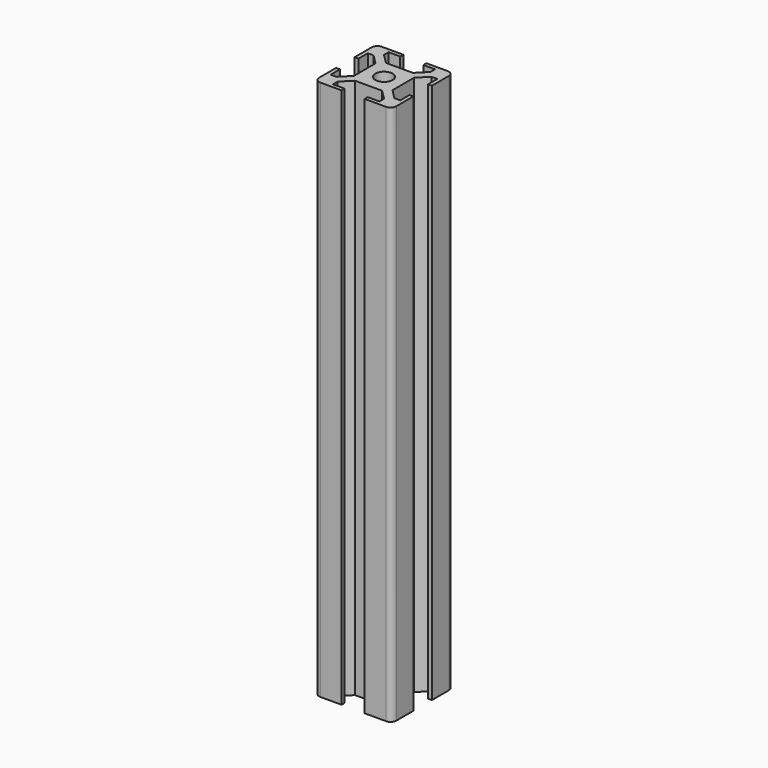
from build123d import *

# Parameters (mm, degrees)
SKETCH_R  = 2.25
PAD_DEPTH = 140
FILLET_R  = 1.5


with BuildPart() as part:
    # Sketch → Pad (new body)
    with BuildSketch(Plane(origin=(0, 0, 0), x_dir=(1, 0, 0), z_dir=(0, 0, -1))):
        Polygon((7, 0), (7, -1), (4, -1), (4, -2.5), (6.499998, -5), (13.500002, -5), (16, -2.5), (16, -1), (13, -1), (13, 0), (20, 0), (20, -7), (19, -7), (19, -4), (17.5, -4), (15.000002, -6.5), (15.000002, -13.500005), (17.5, -16.000005), (19, -16.000005), (19, -13.000005), (20, -13.000005), (20, -20.000005), (13, -20.000005), (13, -19.000005), (16, -19.000005), (16, -17.500005), (13.500002, -15.000005), (6.499998, -15.000005), (4, -17.500005), (4, -19.000005), (7, -19.000005), (7, -20.000005), (0, -20.000005), (0, -13.000005), (1, -13.000005), (1, -16.000005), (2.5, -16.000005), (4.999998, -13.500005), (4.999998, -6.5), (2.5, -4), (1, -4), (1, -7), (0, -7), (0, 0), align=None)
        with Locations((10, -10.000002)):
            Circle(SKETCH_R, mode=Mode.SUBTRACT)
    extrude(amount=PAD_DEPTH)

    # Fillet
    fillet_edges = [part.edges().sort_by_distance(p)[0] for p in [
        (20, 20.000005, -70),
        (20, 0, -70),
        (0, 20.000005, -70),
        (0, 0, -70),
    ]]
    fillet(fillet_edges, radius=FILLET_R)


solid = part.part
